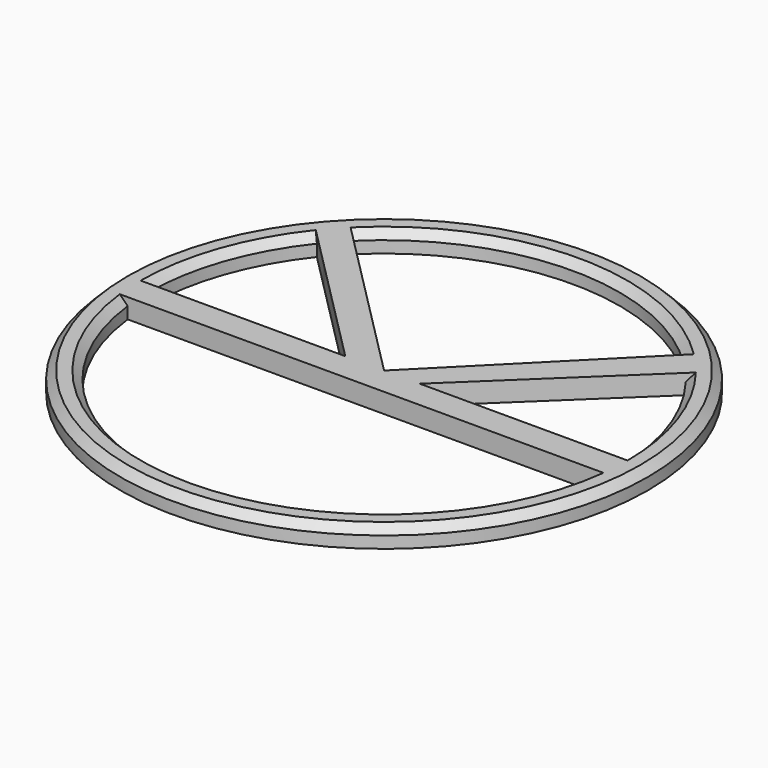
from build123d import *

# Parameters (mm, degrees)
F0_R     = 17.0734697504
F1_DEPTH = 1.27
F2_SIZE  = 0.508


with BuildPart() as f1:
    # F0 (on Top) → F1 (new body)
    with BuildSketch(Plane.XY):
        Circle(F0_R)
        with BuildLine():
            ThreePointArc((12.0605428134, 9.3167004378), (14.4232498501, 4.9221401608), (15.24, 0))
            ThreePointArc((15.24, 0), (15.2127889804, -0.9103029381), (15.131253092, -1.8173551845))
            ThreePointArc((15.131253092, -1.8173551845), (0, -15.24), (-15.131253092, -1.8173551845))
            ThreePointArc((-15.131253092, -1.8173551845), (-15.2127889804, -0.9103029381), (-15.24, 0))
            ThreePointArc((-15.24, 0), (-14.3893350592, 5.0204219498), (-11.9323049141, 9.4803849835))
            ThreePointArc((-11.9323049141, 9.4803849835), (-11.3577782125, 10.1616176898), (-10.7444158345, 10.8081047541))
            ThreePointArc((-10.7444158345, 10.8081047541), (0, 15.24), (10.7444158345, 10.8081047541))
            ThreePointArc((10.7444158345, 10.8081047541), (11.4268371145, 10.0838977364), (12.0605428134, 9.3167004378))
        make_face(mode=Mode.SUBTRACT)
        with BuildLine():
            Line((-2.5077849958, 0), (0, 0))
            Line((0, 0), (-10.7444158345, 10.8081047541))
            ThreePointArc((-10.7444158345, 10.8081047541), (-11.3577782125, 10.1616176898), (-11.9323049141, 9.4803849835))
            Line((-11.9323049141, 9.4803849835), (-9.5489449564, 7.0828973502))
            Line((-9.5489449564, 7.0828973502), (-2.5077849958, 0))
        make_face()
        with BuildLine():
            Line((2.306102775, 0), (12.0605428134, 9.3167004378))
            ThreePointArc((12.0605428134, 9.3167004378), (11.4268371145, 10.0838977364), (10.7444158345, 10.8081047541))
            Line((10.7444158345, 10.8081047541), (0, 0))
            Line((0, 0), (2.306102775, 0))
        make_face()
        with BuildLine():
            ThreePointArc((15.131253092, -1.8173551845), (15.2127889804, -0.9103029381), (15.24, 0))
            Line((15.24, 0), (2.306102775, 0))
            Line((2.306102775, 0), (0, 0))
            Line((0, 0), (-2.5077849958, 0))
            Line((-2.5077849958, 0), (-15.24, 0))
            ThreePointArc((-15.24, 0), (-15.2127889804, -0.9103029381), (-15.131253092, -1.8173551845))
            Line((-15.131253092, -1.8173551845), (15.131253092, -1.8173551845))
        make_face()
    extrude(amount=F1_DEPTH)

    # F2
    f2_edges = [f1.edges().sort_by_distance(p)[0] for p in [
        (-17.07347, 0, 1.27),
        (0, -15.24, 1.27),
        (-14.389335, 5.020422, 1.27),
        (0, 15.24, 1.27),
        (14.42325, 4.92214, 1.27),
    ]]
    chamfer(f2_edges, length=F2_SIZE)


solid = f1.part
